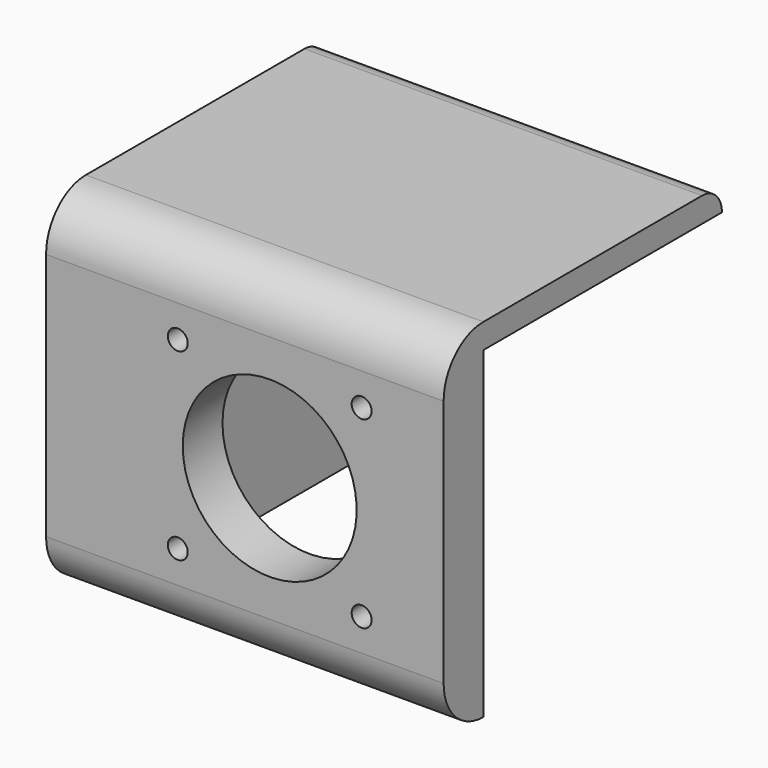
from build123d import *

# Parameters (mm, degrees)
F1_DEPTH = 101.6
F2_DEPTH = 12.7
F3_R     = 22.225
F3_R_2   = 2.55
F4_DEPTH = 12.701
F5_DEPTH = 101.6


with BuildPart() as f1:
    # F0 (on Right) → F1 (new body)
    with BuildSketch(Plane.YZ):
        with BuildLine():
            ThreePointArc((-44.45, -31.75), (-40.730256, -40.730256), (-31.75, -44.45))
            Line((-31.75, -44.45), (-31.75, 38.1))
            Line((-31.75, 38.1), (-31.75, 44.45))
            ThreePointArc((-31.75, 44.45), (-40.730256, 40.730256), (-44.45, 31.75))
            Line((-44.45, 31.75), (-44.45, -31.75))
        make_face()
    extrude(amount=F1_DEPTH)

    # F0 (on Right) → F2 (join)
    with BuildSketch(Plane.YZ):
        with BuildLine():
            Line((-31.75, -44.45), (38.1, -44.45))
            ThreePointArc((38.1, -44.45), (42.590128, -42.590128), (44.45, -38.1))
            Line((44.45, -38.1), (44.45, 38.1))
            Line((44.45, 38.1), (-31.75, 38.1))
            Line((-31.75, 38.1), (-31.75, -44.45))
        make_face()
    extrude(amount=F2_DEPTH)

    # F3 (on face) → F4 (cut, through all)
    with BuildSketch(Plane(origin=(0, -31.75, 0), x_dir=(-1, 0, 0), z_dir=(0, 1, 0))):
        with Locations((-57.15, 0)):
            Circle(F3_R)
        with Locations((-33.65, -23.5)):
            Circle(F3_R_2)
        with Locations((-80.65, -23.5)):
            Circle(F3_R_2)
        with Locations((-80.65, 23.5)):
            Circle(F3_R_2)
        with Locations((-33.65, 23.5)):
            Circle(F3_R_2)
    extrude(amount=-F4_DEPTH, mode=Mode.SUBTRACT)

    # F0 (on Right) → F5 (join)
    with BuildSketch(Plane.YZ):
        with BuildLine():
            Line((-31.75, 44.45), (-31.75, 38.1))
            Line((-31.75, 38.1), (44.45, 38.1))
            ThreePointArc((44.45, 38.1), (42.590128, 42.590128), (38.1, 44.45))
            Line((38.1, 44.45), (-31.75, 44.45))
        make_face()
    extrude(amount=F5_DEPTH)


solid = f1.part
